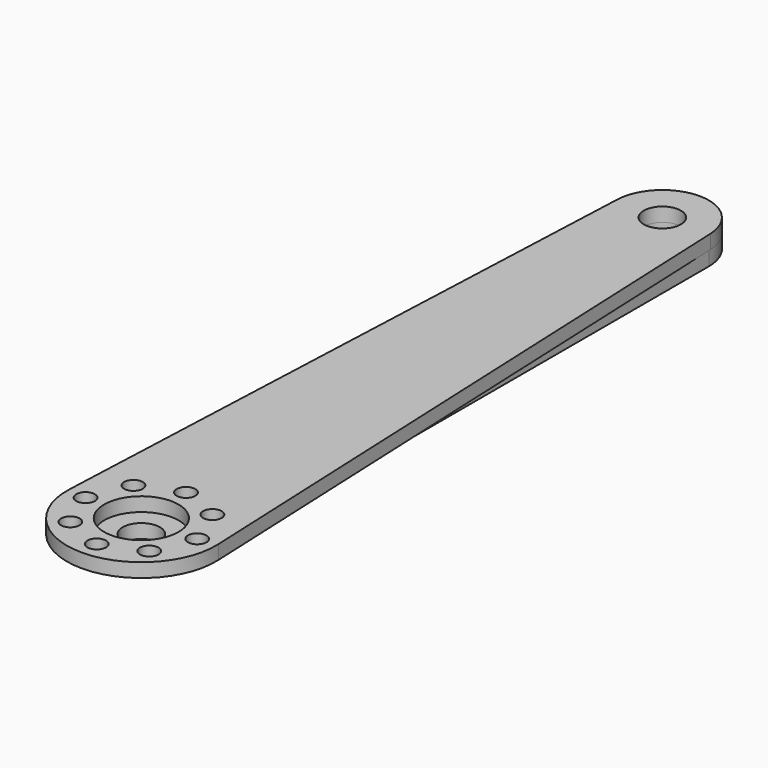
from build123d import *

# Parameters (mm, degrees)
F0_R     = 1
F0_R_2   = 4
F0_R_3   = 2
F1_DEPTH = 1.5
F2_R     = 2
F3_DEPTH = 1.5


with BuildPart() as f1:
    # F0 (on Top) → F1 (new body)
    with BuildSketch(Plane.XY):
        with BuildLine():
            Line((-4.995406, 70.214286), (-7.99265, 0.342857))
            ThreePointArc((-7.99265, 0.342857), (0, -8), (7.99265, 0.342857))
            Line((7.99265, 0.342857), (4.995406, 70.214286))
            ThreePointArc((4.995406, 70.214286), (0, 75), (-4.995406, 70.214286))
        make_face()
        with Locations((-4.242641, -4.242641)):
            Circle(F0_R, mode=Mode.SUBTRACT)
        with Locations((-6, 0)):
            Circle(F0_R, mode=Mode.SUBTRACT)
        with Locations((-4.242641, 4.242641)):
            Circle(F0_R, mode=Mode.SUBTRACT)
        with Locations((0, -6)):
            Circle(F0_R, mode=Mode.SUBTRACT)
        Circle(F0_R_2, mode=Mode.SUBTRACT)
        with Locations((0, 6)):
            Circle(F0_R, mode=Mode.SUBTRACT)
        with Locations((4.242641, -4.242641)):
            Circle(F0_R, mode=Mode.SUBTRACT)
        with Locations((6, 0)):
            Circle(F0_R, mode=Mode.SUBTRACT)
        with Locations((4.242641, 4.242641)):
            Circle(F0_R, mode=Mode.SUBTRACT)
        with Locations((0, 70)):
            Circle(F0_R_3, mode=Mode.SUBTRACT)
    extrude(amount=F1_DEPTH)


with BuildPart() as f3:
    # F2 (on Top) → F3 (new body)
    with BuildSketch(Plane.XY):
        with BuildLine():
            Line((5, 35), (5, 70))
            ThreePointArc((5, 70), (0, 75), (-5, 70))
            Line((-5, 70), (-5, 35))
            Line((-5, 35), (-5, 0))
            ThreePointArc((-5, 0), (0, -5), (5, 0))
            Line((5, 0), (5, 35))
        make_face()
        Circle(F2_R, mode=Mode.SUBTRACT)
        with Locations((0, 70)):
            Circle(F2_R, mode=Mode.SUBTRACT)
    extrude(amount=-F3_DEPTH)


solid = Compound([f1.part, f3.part])
